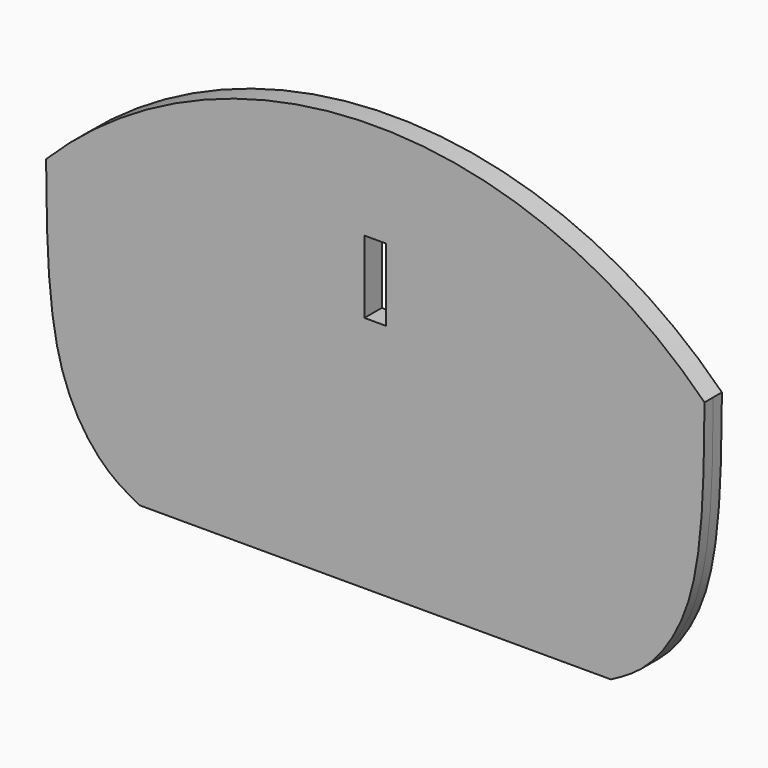
from build123d import *

# Parameters (mm, degrees)
F0_W     = 3
F0_H     = 10
F1_DEPTH = 1.5


with BuildPart() as f1:
    # F0 (on Front) → F1 (new body, symmetric)
    with BuildSketch(Plane.XZ):
        with BuildLine():
            add(Edge.make_bspline(
                [(45.4111116262, 0), (45.3327304926, -9.1179209254), (45.2010129011, -24.4403656227), (37.8871057547, -34.967788129), (34.0737616237, -37.0035010354), (32.5019552596, -37.8425930218)],
                knots=[0, 0, 0, 0, 0.4634698925, 0.7788498996, 1, 1, 1, 1], degree=3))
            ThreePointArc((45.4111116262, 0), (0, 18.8062293993), (-45.4111116262, 0))
            add(Edge.make_bspline(
                [(-45.4111116262, 0), (-45.3327304926, -9.1179209254), (-45.2010129011, -24.4403656227), (-37.8871057547, -34.967788129), (-34.0737616237, -37.0035010354), (-32.5019552596, -37.8425930218)],
                knots=[0, 0, 0, 0, 0.4634698925, 0.7788498996, 1, 1, 1, 1], degree=3))
            Line((-32.5019552596, -37.8425930218), (0, -37.8425930218))
            Line((0, -37.8425930218), (32.5019552596, -37.8425930218))
        make_face()
        Rectangle(F0_W, F0_H, mode=Mode.SUBTRACT)
    extrude(amount=F1_DEPTH, both=True)


solid = f1.part
